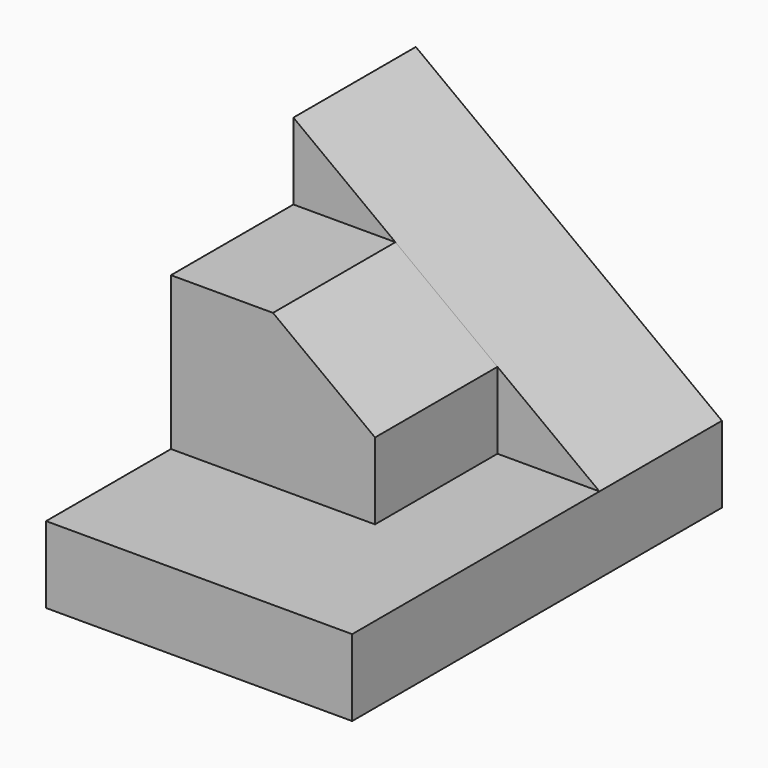
from build123d import *

# Parameters (mm, degrees)
F0_W     = 25.4
F0_H     = 6.35
F1_DEPTH = 38.354
F3_DEPTH = 12.7
F5_DEPTH = 12.7
F6_DEPTH = 12.7


with BuildPart() as f1:
    # F0 (on Front) → F1 (new body)
    with BuildSketch(Plane.XZ):
        with Locations((12.7, 3.175)):
            Rectangle(F0_W, F0_H)
    extrude(amount=-F1_DEPTH)

    # F2 (on face) → F3 (join)
    with BuildSketch(Plane(origin=(0, 38.354, 0), x_dir=(-1, 0, 0), z_dir=(0, 1, 0))):
        Polygon((-25.4, 6.35), (0, 6.35), (0, 25.4), align=None)
    extrude(amount=-F3_DEPTH)

    # F4 (on face) → F5 (join)
    with BuildSketch(Plane.XZ.offset(-25.654)):
        Polygon((0, 6.35), (16.9333333333, 6.35), (16.9333333333, 12.7), (8.4666666667, 19.05), (0, 19.05), align=None)
    extrude(amount=F5_DEPTH)

    # F4 (on face) → F6 (join)
    with BuildSketch(Plane.XZ.offset(-25.654)):
        Polygon((0, 6.35), (16.9333333333, 6.35), (16.9333333333, 12.7), (8.4666666667, 19.05), (0, 19.05), align=None)
    extrude(amount=F6_DEPTH)


solid = f1.part
